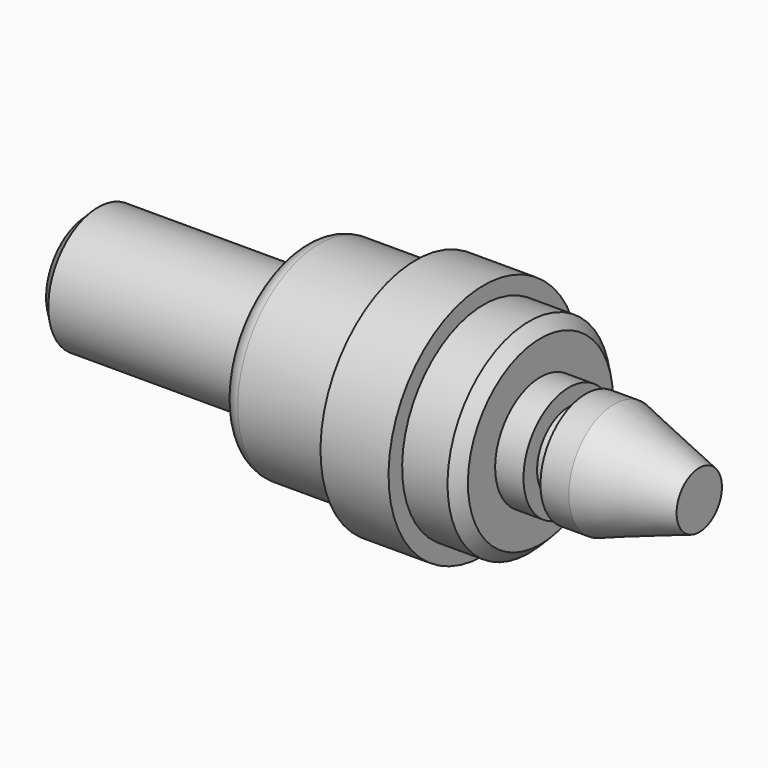
from build123d import *

# Parameters (mm, degrees)
F2_SIZE = 2
F3_R    = 3
F4_R    = 3


with BuildPart() as f1:
    # F0 (on Front) → F1 (revolve)
    with BuildSketch(Plane.XZ):
        Polygon((23.9498503727, 10), (-84.0501496273, 10), (-84.0501496273, -1), (-46.0501496273, -1), (-46.0501496273, -8), (-26.0501496273, -8), (-26.0501496273, -11), (-14.0501496273, -11), (-14.0501496273, -8), (-4.0501496273, -8), (-4.0501496273, 0), (0.9498503727, 0), (0.9498503727, 3), (3.9498503727, 3), (3.9498503727, 0), (8.9498503727, 0), (23.9498503727, 5), align=None)
    revolve(axis=Axis((-106.2277666089, 0, 10), (-1, 0, 0)))

    # F2
    f2_edges = [f1.edges().sort_by_distance(p)[0] for p in [
        (-84.05015, 0, 21),
        (-4.05015, 0, 28),
    ]]
    chamfer(f2_edges, length=F2_SIZE)

    # F3
    f3_edges = [f1.edges().sort_by_distance(p)[0] for p in [
        (-46.05015, 0, 28),
    ]]
    fillet(f3_edges, radius=F3_R)

    # F4
    f4_edges = [f1.edges().sort_by_distance(p)[0] for p in [
        (-46.05015, 0, 21),
    ]]
    fillet(f4_edges, radius=F4_R)


solid = f1.part
